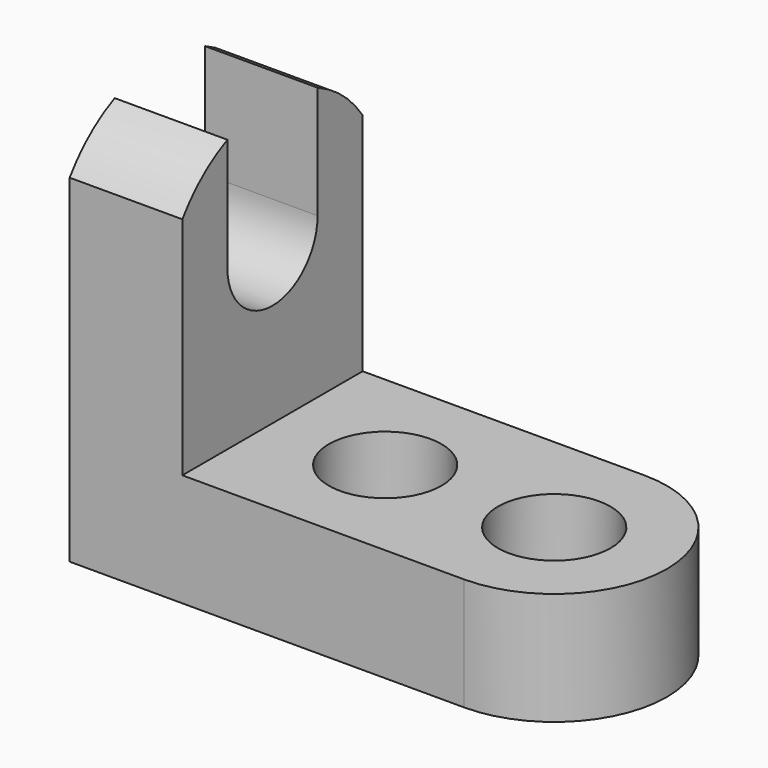
from build123d import *

# Parameters (mm, degrees)
F0_R     = 6.35
F1_DEPTH = 12.7
F2_W     = 12.7
F2_H     = 25.4
F3_DEPTH = 25.4
F4_W     = 25.4
F4_H     = 6.35
F5_DEPTH = 12.7
F7_DEPTH = 25.4
F9_DEPTH = 25.4


with BuildPart() as f1:
    # F0 (on Top) → F1 (new body)
    with BuildSketch(Plane.XY):
        with BuildLine():
            Line((0, 25.4), (0, 0))
            Line((0, 0), (44.45, 0))
            ThreePointArc((44.45, 0), (57.15, 12.7), (44.45, 25.4))
            Line((44.45, 25.4), (0, 25.4))
        make_face()
        with Locations((25.4, 12.7)):
            Circle(F0_R, mode=Mode.SUBTRACT)
        with Locations((44.45, 12.7)):
            Circle(F0_R, mode=Mode.SUBTRACT)
    extrude(amount=F1_DEPTH)

    # F2 (on face) → F3 (join)
    with BuildSketch(Plane.XZ):
        with Locations((6.35, 25.4)):
            Rectangle(F2_W, F2_H)
    extrude(amount=-F3_DEPTH)

    # F4 (on face) → F5 (join)
    with BuildSketch(Plane.YZ.offset(12.7)):
        with Locations((12.7, 41.275)):
            Rectangle(F4_W, F4_H)
    extrude(amount=-F5_DEPTH)

    # F6 (on face) → F7 (cut)
    with BuildSketch(Plane.YZ.offset(12.7)):
        with BuildLine():
            ThreePointArc((15.8657383942, 44.45), (21.2446497119, 42.1935630666), (25.4, 38.1))
            Line((25.4, 38.1), (25.4, 44.45))
            Line((25.4, 44.45), (15.8657383942, 44.45))
        make_face()
        with BuildLine():
            ThreePointArc((0, 38.1), (4.1553502881, 42.1935630666), (9.5342616058, 44.45))
            Line((9.5342616058, 44.45), (0, 44.45))
            Line((0, 44.45), (0, 38.1))
        make_face()
    extrude(amount=-F7_DEPTH, mode=Mode.SUBTRACT)

    # F8 (on face) → F9 (cut)
    with BuildSketch(Plane.YZ.offset(12.7)):
        with BuildLine():
            ThreePointArc((9.5342616058, 44.45), (7.9137921468, 44.0166926131), (6.35, 43.4098724745))
            Line((6.35, 43.4098724745), (6.35, 30.7098724745))
            ThreePointArc((6.35, 30.7098724745), (12.7, 24.3598724745), (19.05, 30.7098724745))
            Line((19.05, 30.7098724745), (19.05, 43.4098724745))
            ThreePointArc((19.05, 43.4098724745), (17.4862078532, 44.0166926131), (15.8657383942, 44.45))
            Line((15.8657383942, 44.45), (9.5342616058, 44.45))
        make_face()
    extrude(amount=-F9_DEPTH, mode=Mode.SUBTRACT)


solid = f1.part
